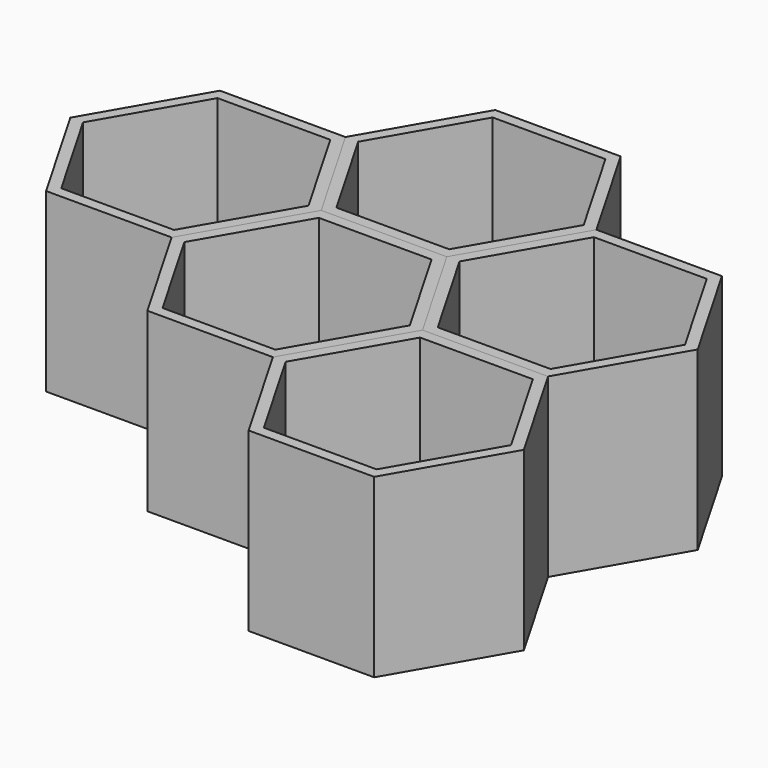
from build123d import *

# Parameters (mm, degrees)
F1_DEPTH = 101.6
F2_T     = -6.35
F3_COUNT = 3
F4_COUNT = 3


with BuildPart() as f1:
    # F0 (on Top) → F1 (new body)
    with BuildSketch(Plane.XY):
        Polygon((-36.1110100924, -62.5461041927), (36.1110100924, -62.5461041927), (72.2220201849, 0), (36.1110100924, 62.5461041927), (-36.1110100924, 62.5461041927), (-72.2220201849, 0), align=None)
    extrude(amount=F1_DEPTH)

    # F2
    f2_openings = [f1.faces().sort_by_distance(p)[0] for p in [
        (0, 0, 101.6),
    ]]
    offset(amount=F2_T, openings=f2_openings)


with BuildPart() as f3_1:
    # F3: instance of F1
    add(f1.part.rotate(Axis((-36.1110100924, -62.5461041927, 50.8), (0, 0, -1)), 1 * 360 / F3_COUNT))


with BuildPart() as f3_2:
    # F3: instance of F1
    add(f1.part.rotate(Axis((-36.1110100924, -62.5461041927, 50.8), (0, 0, -1)), 2 * 360 / F3_COUNT))


with BuildPart() as f4_1:
    # F4: instance of F3_1
    add(f3_1.part.rotate(Axis((72.2220201849, -125.0922083855, 50.8), (0, 0, -1)), 1 * 360 / F4_COUNT))


with BuildPart() as f4_2:
    # F4: instance of F3_1
    add(f3_1.part.rotate(Axis((72.2220201849, -125.0922083855, 50.8), (0, 0, -1)), 2 * 360 / F4_COUNT))


solid = Compound([f1.part, f3_1.part, f3_2.part, f4_1.part, f4_2.part])
